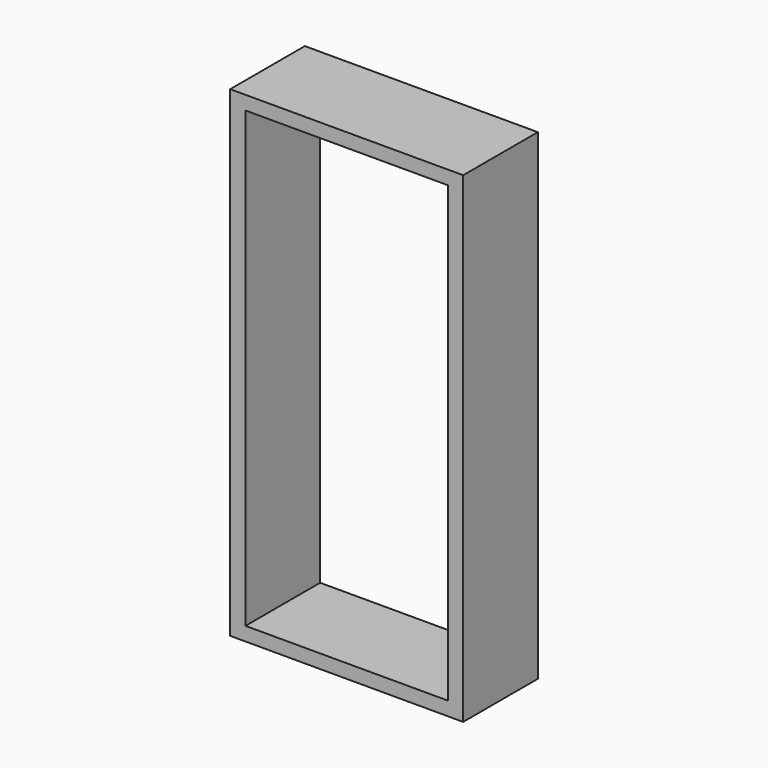
from build123d import *

# Parameters (mm, degrees)
F0_W     = 63.429826
F0_H     = 131.032676
F1_DEPTH = 25.4


with BuildPart() as f1:
    # F0 (on Front) → F1 (new body)
    with BuildSketch(Plane.XZ):
        Rectangle(F0_W, F0_H)
        Polygon((-27.541896, 4.590319), (-27.541896, 61.760623), (27.541896, 61.760623), (27.541896, 4.590319), (27.541896, 0), (27.541896, -61.760623), (-27.541896, -61.760623), (-27.541896, 0), align=None, mode=Mode.SUBTRACT)
    extrude(amount=F1_DEPTH)


solid = f1.part
